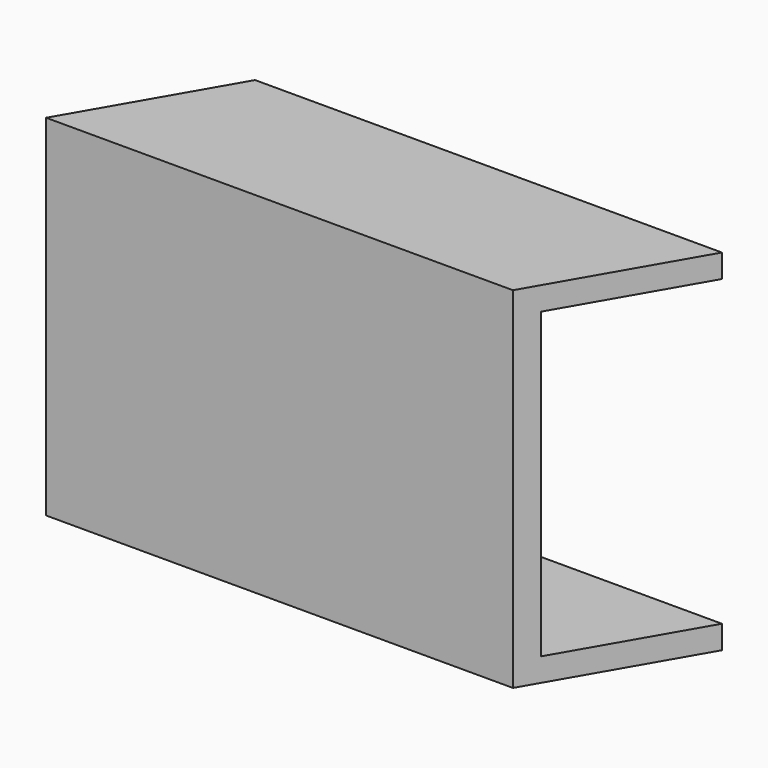
from build123d import *

# Parameters (mm, degrees)
F1_DEPTH = 76.2
F2_W     = 33.0482117773
F2_H     = 66.04


with BuildPart() as f1:
    # F0 (on Top) → F1 (new body)
    with BuildSketch(Plane.XY):
        Polygon((46.5196689838, -0.8340019342), (-55.0803310162, -0.8340019342), (-74.1444369048, -33.8540019342), (27.4555630952, -33.8540019342), align=None)
    extrude(amount=F1_DEPTH)

    # F4: sweep along a path in F3
    with BuildLine(Plane(origin=(0, -0.8340019342, 0), x_dir=(-1, 0, 0), z_dir=(0, 1, 0))) as f4_path:
        Line((-46.5196689838, 38.1), (55.0803310162, 38.1))
    # F2 (on face) → F4 (sweep, cut)
    with BuildSketch(Plane(origin=(35.2508851688, -20.3521080414, 0), x_dir=(0.5, 0.8660254038, 0), z_dir=(0.8660254038, -0.5, 0))):
        with Locations((6.0134617415, 38.1)):
            Rectangle(F2_W, F2_H)
    sweep(path=f4_path.line, mode=Mode.SUBTRACT)


solid = f1.part
